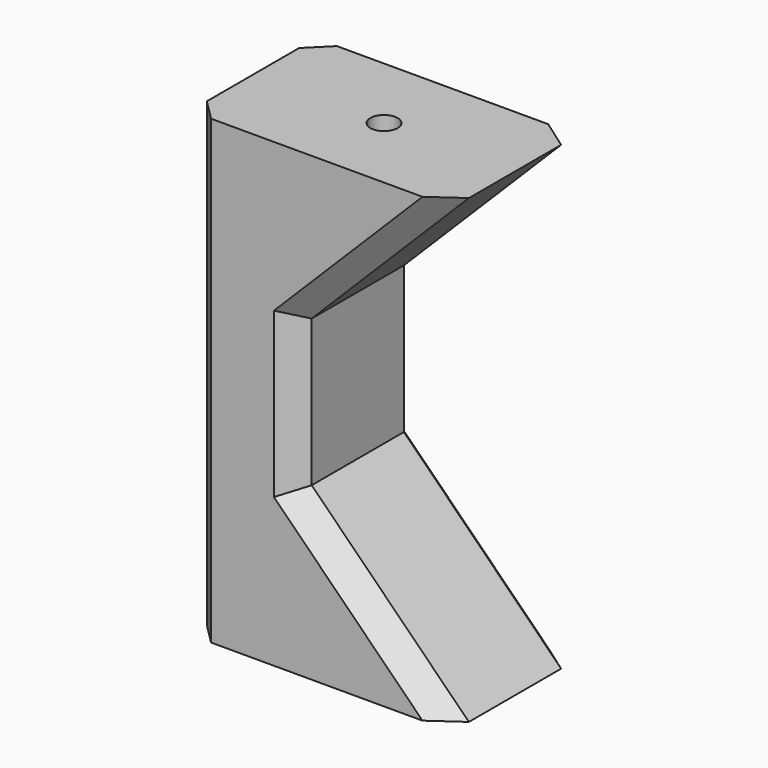
from build123d import *

# Parameters (mm, degrees)
CYLINDER_R        = 1.3
CYLINDER_DEPTH    = 8
CYLINDER001_R     = 1.3
CYLINDER001_DEPTH = 8
EXTRUDE_DEPTH     = 15
CHAMFER_SIZE      = 2


with BuildPart() as cylinder000:
    # Cylinder → Cylinder (new body)
    with BuildSketch(Plane(origin=(12.5, -7.5, 0), x_dir=(1, 0, 0), z_dir=(0, 0, 1))):
        Circle(CYLINDER_R)
    extrude(amount=CYLINDER_DEPTH)


with BuildPart() as fusion:
    # Cylinder001 → Cylinder001 (new body)
    with BuildSketch(Plane(origin=(12.5, -7.5, 36), x_dir=(1, 0, 0), z_dir=(0, 0, 1))):
        Circle(CYLINDER001_R)
    extrude(amount=CYLINDER001_DEPTH)

    # Fusion: union Cylinder000
    add(cylinder000.part)


with BuildPart() as cut:
    # Sketch → Extrude (new body)
    with BuildSketch(Plane.XZ):
        Polygon((0, 0), (25, 0), (10, 15), (10, 29), (25, 44), (0, 44), align=None)
    extrude(amount=EXTRUDE_DEPTH)

    # Chamfer
    chamfer_edges = [cut.edges().sort_by_distance(p)[0] for p in [
        (0, 0, 22),
        (0, -15, 22),
        (17.5, 0, 7.5),
        (17.5, -15, 7.5),
        (10, 0, 22),
        (10, -15, 22),
        (17.5, 0, 36.5),
        (17.5, -15, 36.5),
    ]]
    chamfer(chamfer_edges, length=CHAMFER_SIZE)

    # Cut: cut Fusion
    add(fusion.part, mode=Mode.SUBTRACT)


solid = cut.part
